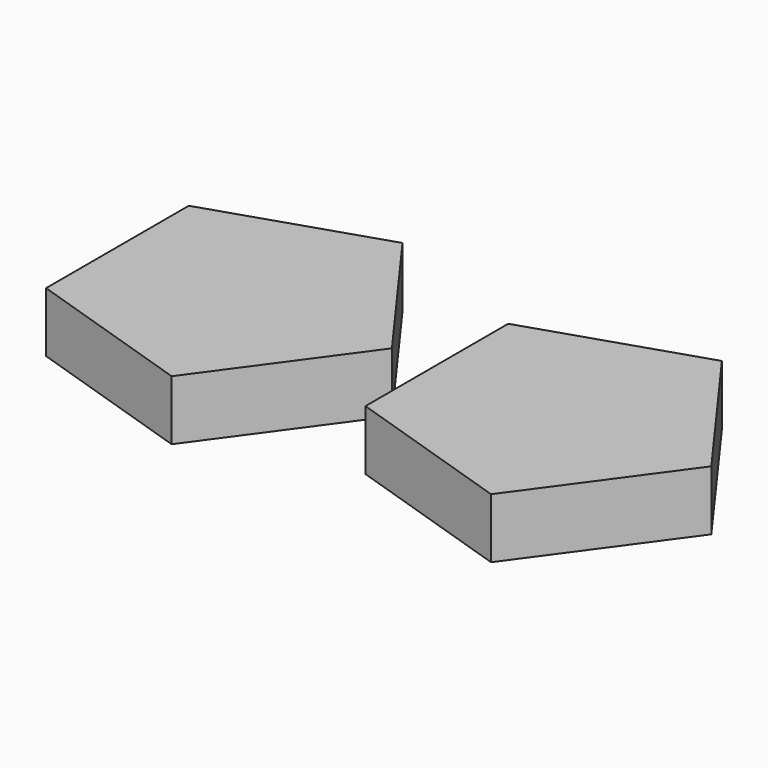
from build123d import *

# Parameters (mm, degrees)
PAD_DEPTH    = 1.5
PAD001_DEPTH = 1.5


with BuildPart() as body:
    # Sketch → Pad (new body)
    with BuildSketch(Plane.XY):
        Polygon((3.8, 0), (1.174265, 3.614015), (-3.074265, 2.233584), (-3.074265, -2.233584), (1.174265, -3.614015), align=None)
    extrude(amount=PAD_DEPTH)


with BuildPart() as body001:
    # Sketch001 → Pad001 (new body)
    with BuildSketch(Plane.XY):
        Polygon((3.8, 0), (1.174265, 3.614015), (-3.074265, 2.233584), (-3.074265, -2.233584), (1.174265, -3.614015), align=None)
    extrude(amount=PAD001_DEPTH)


with BuildPart() as body001_1:
    # Body001 placement: moved
    add(body001.part.moved(Location((-8, 0, 0))))


solid = Compound([body.part, body001_1.part])
